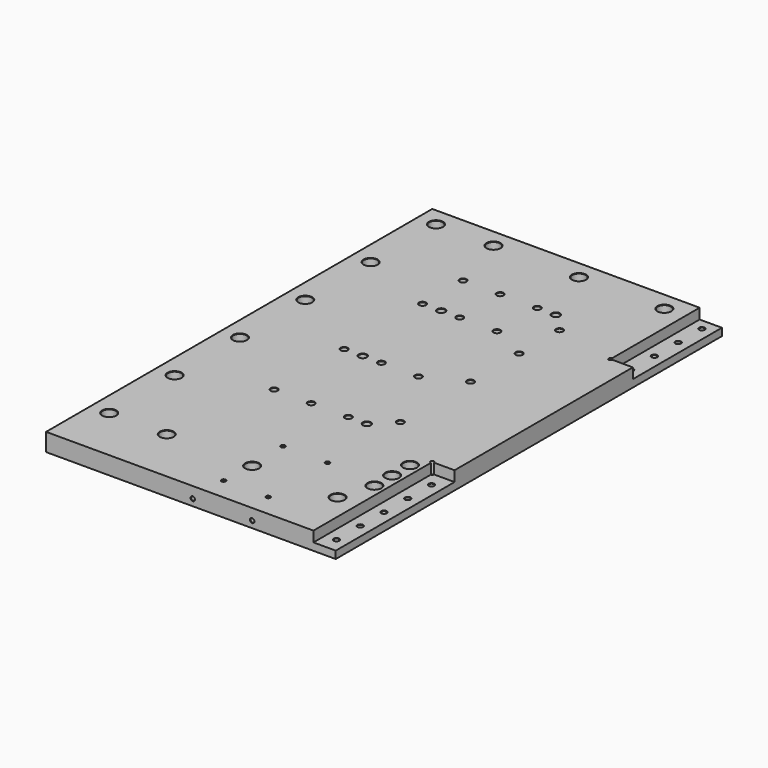
from build123d import *

# Parameters (mm, degrees)
F0_W      = 390
F0_H      = 650
F1_DEPTH  = 24
F2_W      = 30
F2_H      = 150
F2_H_2    = 200
F4_DEPTH  = 14
F3_R      = 2.5
F5_DEPTH  = 18.5
F6_SIZE   = 2.5
F7_R      = 3.4
F8_DEPTH  = 25
F9_SIZE   = 0.5
F10_R     = 5.5
F11_DEPTH = 25
F10_R_2   = 9
F12_DEPTH = 11
F13_SIZE  = 0.5
F14_R     = 4.25
F14_R_2   = 5
F15_DEPTH = 25
F16_SIZE  = 0.5
F17_R     = 4.25
F17_R_2   = 5
F18_DEPTH = 25
F19_SIZE  = 0.5
F20_R     = 5.5
F21_DEPTH = 25
F20_R_2   = 9
F22_DEPTH = 11
F23_SIZE  = 0.5
F24_R     = 2.5
F26_DEPTH = 25
F25_R     = 2.5
F27_DEPTH = 25
F28_SIZE  = 2.5
F29_SIZE  = 0.5


with BuildPart() as f1:
    # F0 (on Top) → F1 (new body)
    with BuildSketch(Plane.XY):
        Rectangle(F0_W, F0_H)
    extrude(amount=F1_DEPTH)

    # F2 (on face) → F4 (cut)
    with BuildSketch(Plane.XY.offset(24)):
        with Locations((180, 250)):
            Rectangle(F2_W, F2_H)
        with Locations((180, -225)):
            Rectangle(F2_W, F2_H_2)
    extrude(amount=-F4_DEPTH, mode=Mode.SUBTRACT)

    # F3 (on face) → F5 (cut)
    with BuildSketch(Plane.XY.offset(24)):
        with Locations((165, 175)):
            Circle(F3_R)
        with Locations((165, -125)):
            Circle(F3_R)
    extrude(amount=-F5_DEPTH, mode=Mode.SUBTRACT)

    # F6
    f6_edges = [f1.edges().sort_by_distance(p)[0] for p in [
        (162.5, -125, 5.5),
        (162.5, 175, 5.5),
    ]]
    chamfer(f6_edges, length=F6_SIZE)

    # F7 (on face) → F8 (cut)
    with BuildSketch(Plane.XY.offset(24)):
        with Locations((180, 310)):
            Circle(F7_R)
        with Locations((180, 230)):
            Circle(F7_R)
        with Locations((180, 190)):
            Circle(F7_R)
        with Locations((180, -145)):
            Circle(F7_R)
        with Locations((180, -185)):
            Circle(F7_R)
        with Locations((180, -225)):
            Circle(F7_R)
        with Locations((180, -265)):
            Circle(F7_R)
        with Locations((180, -305)):
            Circle(F7_R)
        with Locations((180, 270)):
            Circle(F7_R)
    extrude(amount=-F8_DEPTH, mode=Mode.SUBTRACT)

    # F9
    f9_edges = [f1.edges().sort_by_distance(p)[0] for p in [
        (176.6, -305, 10),
        (183.4, -305, 5),
        (176.6, -305, 0),
        (176.6, -265, 10),
        (183.4, -265, 5),
        (176.6, -265, 0),
        (176.6, -225, 10),
        (183.4, -225, 5),
        (176.6, -225, 0),
        (176.6, -185, 10),
        (183.4, -185, 5),
        (176.6, -185, 0),
        (176.6, -145, 10),
        (183.4, -145, 5),
        (176.6, -145, 0),
        (176.6, 190, 10),
        (183.4, 190, 5),
        (176.6, 190, 0),
        (176.6, 230, 10),
        (183.4, 230, 5),
        (176.6, 230, 0),
        (176.6, 270, 10),
        (183.4, 270, 5),
        (176.6, 270, 0),
        (176.6, 310, 10),
        (183.4, 310, 5),
        (176.6, 310, 0),
    ]]
    chamfer(f9_edges, length=F9_SIZE)

    # F10 (on face) → F11 (cut)
    with BuildSketch(Plane.XY.offset(24)):
        with Locations((137.5, 300)):
            Circle(F10_R)
        with Locations((22.5, 300)):
            Circle(F10_R)
        with Locations((-92.5, 300)):
            Circle(F10_R)
        with Locations((-170, 300)):
            Circle(F10_R)
        with Locations((-170, 190)):
            Circle(F10_R)
        with Locations((-170, 80)):
            Circle(F10_R)
        with Locations((-170, -30)):
            Circle(F10_R)
        with Locations((-170, -140)):
            Circle(F10_R)
        with Locations((-170, -250)):
            Circle(F10_R)
        with Locations((-92.5, -250)):
            Circle(F10_R)
        with Locations((22.5, -250)):
            Circle(F10_R)
        with Locations((137.5, -250)):
            Circle(F10_R)
    extrude(amount=-F11_DEPTH, mode=Mode.SUBTRACT)

    # F10 (on face) → F12 (cut)
    with BuildSketch(Plane.XY.offset(24)):
        with Locations((137.5, 300)):
            Circle(F10_R_2)
        with Locations((137.5, 300)):
            Circle(F10_R, mode=Mode.SUBTRACT)
        with Locations((22.5, 300)):
            Circle(F10_R_2)
        with Locations((22.5, 300)):
            Circle(F10_R, mode=Mode.SUBTRACT)
        with Locations((-92.5, 300)):
            Circle(F10_R_2)
        with Locations((-92.5, 300)):
            Circle(F10_R, mode=Mode.SUBTRACT)
        with Locations((-170, 300)):
            Circle(F10_R_2)
        with Locations((-170, 300)):
            Circle(F10_R, mode=Mode.SUBTRACT)
        with Locations((-170, 190)):
            Circle(F10_R_2)
        with Locations((-170, 190)):
            Circle(F10_R, mode=Mode.SUBTRACT)
        with Locations((-170, 80)):
            Circle(F10_R_2)
        with Locations((-170, 80)):
            Circle(F10_R, mode=Mode.SUBTRACT)
        with Locations((-170, -30)):
            Circle(F10_R_2)
        with Locations((-170, -30)):
            Circle(F10_R, mode=Mode.SUBTRACT)
        with Locations((-170, -140)):
            Circle(F10_R_2)
        with Locations((-170, -140)):
            Circle(F10_R, mode=Mode.SUBTRACT)
        with Locations((-170, -250)):
            Circle(F10_R_2)
        with Locations((-170, -250)):
            Circle(F10_R, mode=Mode.SUBTRACT)
        with Locations((-92.5, -250)):
            Circle(F10_R_2)
        with Locations((-92.5, -250)):
            Circle(F10_R, mode=Mode.SUBTRACT)
        with Locations((22.5, -250)):
            Circle(F10_R_2)
        with Locations((22.5, -250)):
            Circle(F10_R, mode=Mode.SUBTRACT)
        with Locations((137.5, -250)):
            Circle(F10_R_2)
        with Locations((137.5, -250)):
            Circle(F10_R, mode=Mode.SUBTRACT)
    extrude(amount=-F12_DEPTH, mode=Mode.SUBTRACT)

    # F13
    f13_edges = [f1.edges().sort_by_distance(p)[0] for p in [
        (-179, 300, 24),
        (13.5, 300, 24),
        (128.5, 300, 24),
        (-101.5, 300, 24),
        (-179, 190, 24),
        (-179, 80, 24),
        (128.5, -250, 24),
        (13.5, -250, 24),
        (-179, -30, 24),
        (-179, -140, 24),
        (-179, -250, 24),
        (-101.5, -250, 24),
        (132, -250, 0),
        (17, -250, 0),
        (-98, -250, 0),
        (-175.5, -250, 0),
        (-175.5, -140, 0),
        (-175.5, -30, 0),
        (-175.5, 190, 0),
        (-175.5, 80, 0),
        (-175.5, 300, 0),
        (-98, 300, 0),
        (17, 300, 0),
        (132, 300, 0),
    ]]
    chamfer(f13_edges, length=F13_SIZE)

    # F14 (on face) → F15 (cut)
    with BuildSketch(Plane.XY.offset(24)):
        with Locations((-68, 150)):
            Circle(F14_R)
        with Locations((-43, 150)):
            Circle(F14_R_2)
        with Locations((82, 125)):
            Circle(F14_R)
        with Locations((-18, 150)):
            Circle(F14_R)
        with Locations((32, 150)):
            Circle(F14_R)
        with Locations((82, -75)):
            Circle(F14_R)
        with Locations((32, -100)):
            Circle(F14_R)
        with Locations((-18, -100)):
            Circle(F14_R)
        with Locations((-68, -100)):
            Circle(F14_R)
        with Locations((57, -100)):
            Circle(F14_R_2)
    extrude(amount=-F15_DEPTH, mode=Mode.SUBTRACT)

    # F16
    f16_edges = [f1.edges().sort_by_distance(p)[0] for p in [
        (77.75, -75, 24),
        (86.25, -75, 12),
        (77.75, -75, 0),
        (52, -100, 24),
        (62, -100, 12),
        (52, -100, 0),
        (-22.25, -100, 24),
        (-13.75, -100, 12),
        (-22.25, -100, 0),
        (27.75, -100, 24),
        (36.25, -100, 12),
        (27.75, -100, 0),
        (-72.25, -100, 24),
        (-63.75, -100, 12),
        (-72.25, -100, 0),
        (77.75, 125, 24),
        (86.25, 125, 12),
        (77.75, 125, 0),
        (27.75, 150, 24),
        (36.25, 150, 12),
        (27.75, 150, 0),
        (-22.25, 150, 24),
        (-13.75, 150, 12),
        (-22.25, 150, 0),
        (-48, 150, 24),
        (-38, 150, 12),
        (-48, 150, 0),
        (-72.25, 150, 24),
        (-63.75, 150, 12),
        (-72.25, 150, 0),
    ]]
    chamfer(f16_edges, length=F16_SIZE)

    # F17 (on face) → F18 (cut)
    with BuildSketch(Plane(origin=(0, 0, 0), x_dir=(1, 0, 0), z_dir=(0, 0, -1))):
        with Locations((-68, -18)):
            Circle(F17_R)
        with Locations((-43, -18)):
            Circle(F17_R_2)
        with Locations((82, -43)):
            Circle(F17_R)
        with Locations((-18, -18)):
            Circle(F17_R)
        with Locations((32, -18)):
            Circle(F17_R)
        with Locations((82, -193)):
            Circle(F17_R)
        with Locations((32, -218)):
            Circle(F17_R)
        with Locations((-18, -218)):
            Circle(F17_R)
        with Locations((-68, -218)):
            Circle(F17_R)
        with Locations((57, -218)):
            Circle(F17_R_2)
    extrude(amount=-F18_DEPTH, mode=Mode.SUBTRACT)

    # F19
    f19_edges = [f1.edges().sort_by_distance(p)[0] for p in [
        (-72.25, 18, 0),
        (-63.75, 18, 12),
        (-72.25, 18, 24),
        (-48, 18, 0),
        (-38, 18, 12),
        (-48, 18, 24),
        (27.75, 18, 0),
        (36.25, 18, 12),
        (27.75, 18, 24),
        (-22.25, 18, 0),
        (-13.75, 18, 12),
        (-22.25, 18, 24),
        (77.75, 43, 0),
        (86.25, 43, 12),
        (77.75, 43, 24),
        (-72.25, 218, 0),
        (-63.75, 218, 12),
        (-72.25, 218, 24),
        (-22.25, 218, 0),
        (-13.75, 218, 12),
        (-22.25, 218, 24),
        (27.75, 218, 0),
        (36.25, 218, 12),
        (27.75, 218, 24),
        (52, 218, 0),
        (62, 218, 12),
        (52, 218, 24),
        (77.75, 193, 0),
        (86.25, 193, 12),
        (77.75, 193, 24),
    ]]
    chamfer(f19_edges, length=F19_SIZE)

    # F20 (on face) → F21 (cut)
    with BuildSketch(Plane.XY.offset(24)):
        with Locations((151, -145)):
            Circle(F20_R)
        with Locations((151, -175)):
            Circle(F20_R)
        with Locations((151, -205)):
            Circle(F20_R)
    extrude(amount=-F21_DEPTH, mode=Mode.SUBTRACT)

    # F20 (on face) → F22 (cut)
    with BuildSketch(Plane.XY.offset(24)):
        with Locations((151, -145)):
            Circle(F20_R_2)
        with Locations((151, -145)):
            Circle(F20_R, mode=Mode.SUBTRACT)
        with Locations((151, -175)):
            Circle(F20_R_2)
        with Locations((151, -175)):
            Circle(F20_R, mode=Mode.SUBTRACT)
        with Locations((151, -205)):
            Circle(F20_R_2)
        with Locations((151, -205)):
            Circle(F20_R, mode=Mode.SUBTRACT)
    extrude(amount=-F22_DEPTH, mode=Mode.SUBTRACT)

    # F23
    f23_edges = [f1.edges().sort_by_distance(p)[0] for p in [
        (142, -145, 24),
        (142, -175, 24),
        (142, -205, 24),
        (145.5, -205, 0),
        (145.5, -175, 0),
        (145.5, -145, 0),
    ]]
    chamfer(f23_edges, length=F23_SIZE)

    # F24 (on face) → F26 (cut)
    with BuildSketch(Plane.XY.offset(24)):
        with Locations((20, -195)):
            Circle(F24_R)
        with Locations((80, -195)):
            Circle(F24_R)
        with Locations((80, -295)):
            Circle(F24_R)
        with Locations((20, -295)):
            Circle(F24_R)
    extrude(amount=-F26_DEPTH, mode=Mode.SUBTRACT)

    # F25 (on face) → F27 (cut)
    with BuildSketch(Plane.XZ.offset(325)):
        with Locations((2.5, 9)):
            Circle(F25_R)
        with Locations((82.5, 9)):
            Circle(F25_R)
    extrude(amount=-F27_DEPTH, mode=Mode.SUBTRACT)

    # F28
    f28_edges = [f1.edges().sort_by_distance(p)[0] for p in [
        (0, -300, 9),
        (80, -300, 9),
    ]]
    chamfer(f28_edges, length=F28_SIZE)

    # F29
    f29_edges = [f1.edges().sort_by_distance(p)[0] for p in [
        (80, -325, 9),
        (0, -325, 9),
        (17.5, -295, 24),
        (22.5, -295, 12),
        (17.5, -295, 0),
        (77.5, -295, 24),
        (82.5, -295, 12),
        (77.5, -295, 0),
        (17.5, -195, 24),
        (22.5, -195, 12),
        (17.5, -195, 0),
        (77.5, -195, 24),
        (82.5, -195, 12),
        (77.5, -195, 0),
    ]]
    chamfer(f29_edges, length=F29_SIZE)


solid = f1.part
